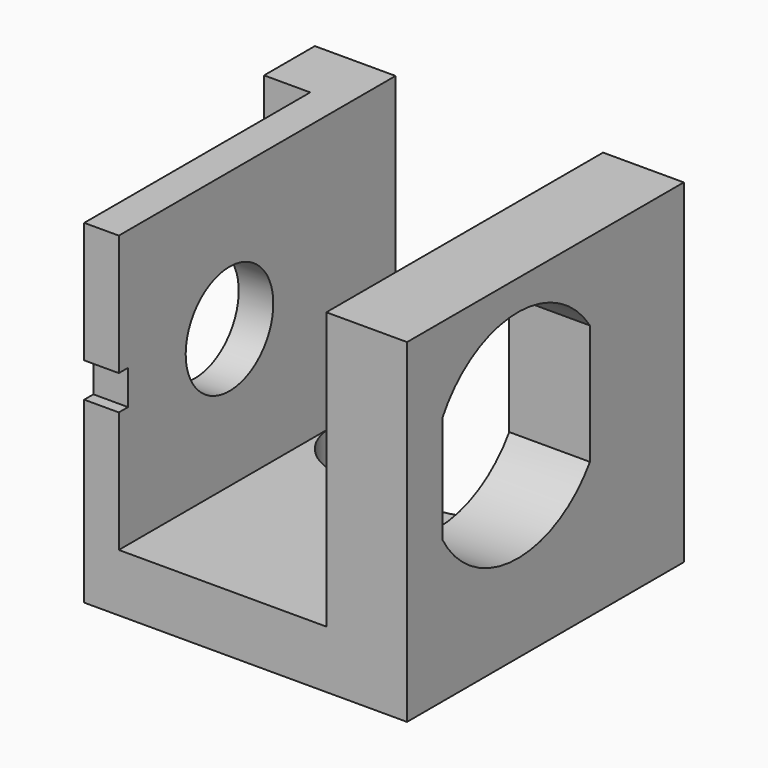
from build123d import *

# Parameters (mm, degrees)
BOX_W           = 28
BOX_H           = 30
BOX_DEPTH       = 5
SKETCH_W        = 3
SKETCH_H        = 30
SKETCH_W_2      = 7
PAD_DEPTH       = 24
SKETCH002_R     = 4.75
SKETCH002_W     = 1
SKETCH002_H     = 3
POCKET_DEPTH    = 4
POCKET001_DEPTH = 10
SKETCH003_W     = 5.5
SKETCH003_H     = 29
PAD001_DEPTH    = 4
SKETCH004_R     = 1.5
POCKET002_DEPTH = 5.3
POCKET003_DEPTH = 5


with BuildPart() as part:
    # Box → Box (new body)
    with BuildSketch(Plane.XY):
        with Locations((14, 15)):
            Rectangle(BOX_W, BOX_H)
    extrude(amount=BOX_DEPTH)

    # Sketch → Pad (new body)
    with BuildSketch(Plane.XY.offset(5)):
        with Locations((1.5, 15)):
            Rectangle(SKETCH_W, SKETCH_H)
        with Locations((24.5, 15)):
            Rectangle(SKETCH_W_2, SKETCH_H)
    extrude(amount=PAD_DEPTH)

    # Sketch002 → Pocket (cut, symmetric)
    with BuildSketch(Plane(origin=(0, 0, 0), x_dir=(0, -1, 0), z_dir=(-1, 0, 0))):
        with Locations((-12, 17)):
            Circle(SKETCH002_R)
        with Locations((-0.5, 17)):
            Rectangle(SKETCH002_W, SKETCH002_H)
    extrude(amount=POCKET_DEPTH, both=True, mode=Mode.SUBTRACT)

    # Sketch001 → Pocket001 (cut)
    with BuildSketch(Plane.YZ.offset(28)):
        with BuildLine():
            Line((19.827027, 22.20554), (19.827027, 11.79446))
            ThreePointArc((3.827027, 12.356455), (11.670031, 7.605793), (19.827027, 11.79446))
            Line((3.827027, 12.356455), (3.827027, 21.643545))
            ThreePointArc((19.827027, 22.20554), (11.670031, 26.394207), (3.827027, 21.643545))
        make_face()
    extrude(amount=-POCKET001_DEPTH, mode=Mode.SUBTRACT)

    # Sketch003 → Pad001 (new body)
    with BuildSketch(Plane(origin=(0, 0, 0), x_dir=(0, -1, 0), z_dir=(-1, 0, 0))):
        with Locations((-27.25, 14.5)):
            Rectangle(SKETCH003_W, SKETCH003_H)
    extrude(amount=PAD001_DEPTH)

    # Sketch004 → Pocket002 (cut)
    with BuildSketch(Plane(origin=(0, 30, 0), x_dir=(-1, 0, 0), z_dir=(0, 1, 0))):
        with Locations((-24.5, 10)):
            Circle(SKETCH004_R)
        with Locations((0.5, 10)):
            Circle(SKETCH004_R)
    extrude(amount=-POCKET002_DEPTH, mode=Mode.SUBTRACT)

    # Sketch005 → Pocket003 (cut)
    with BuildSketch(Plane.XY.offset(5)):
        with BuildLine():
            Line((21, 30), (3, 30))
            Line((3, 30), (3, 23))
            ThreePointArc((3, 23), (4.464466, 19.464466), (8, 18))
            Line((8, 18), (16, 18))
            ThreePointArc((16, 18), (19.535534, 19.464466), (21, 23))
            Line((21, 23), (21, 30))
        make_face()
    extrude(amount=-POCKET003_DEPTH, mode=Mode.SUBTRACT)


solid = part.part
